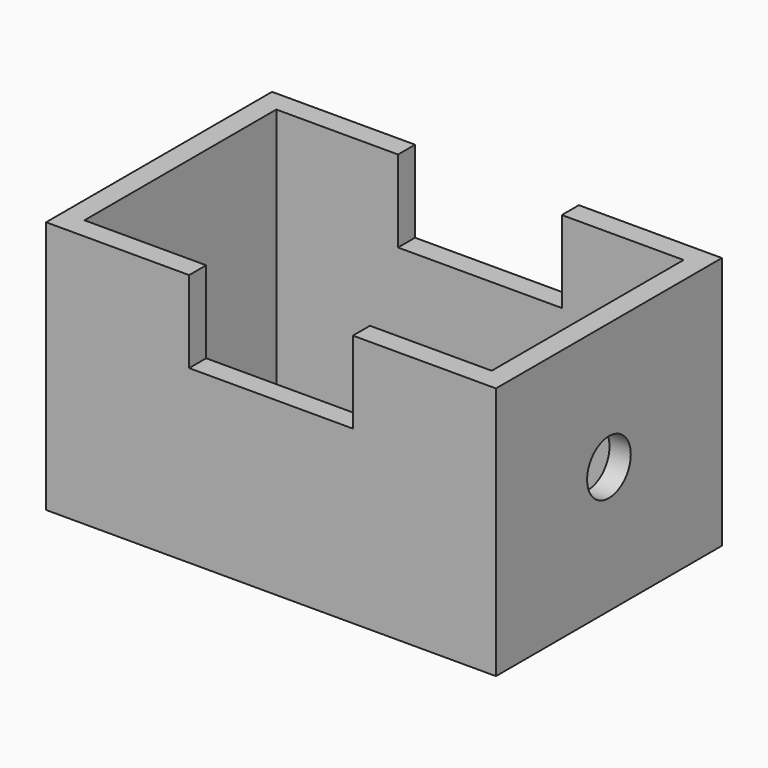
from build123d import *

# Parameters (mm, degrees)
F0_W     = 209.3077600002
F0_H     = 131.40617311
F0_W_2   = 189.4957572222
F0_H_2   = 111.594170332
F1_DEPTH = 117.856
F2_W     = 76.2
F2_H     = 9.906001389
F3_DEPTH = 38.1
F4_R     = 12.7
F5_DEPTH = 209.3087600002


with BuildPart() as f1:
    # F0 (on Top) → F1 (new body)
    with BuildSketch(Plane.XY):
        Rectangle(F0_W, F0_H)
        Rectangle(F0_W_2, F0_H_2, mode=Mode.SUBTRACT)
    extrude(amount=F1_DEPTH)

    # F2 (on face) → F3 (cut)
    with BuildSketch(Plane.XY.offset(117.856)):
        with Locations((0, 60.7500858605)):
            Rectangle(F2_W, F2_H)
        with Locations((0, -60.7500858605)):
            Rectangle(F2_W, F2_H)
    extrude(amount=-F3_DEPTH, mode=Mode.SUBTRACT)

    # F4 (on face) → F5 (cut, through all)
    with BuildSketch(Plane.YZ.offset(104.6538800001)):
        with Locations((0, 58.928)):
            Circle(F4_R)
    extrude(amount=-F5_DEPTH, mode=Mode.SUBTRACT)


solid = f1.part
